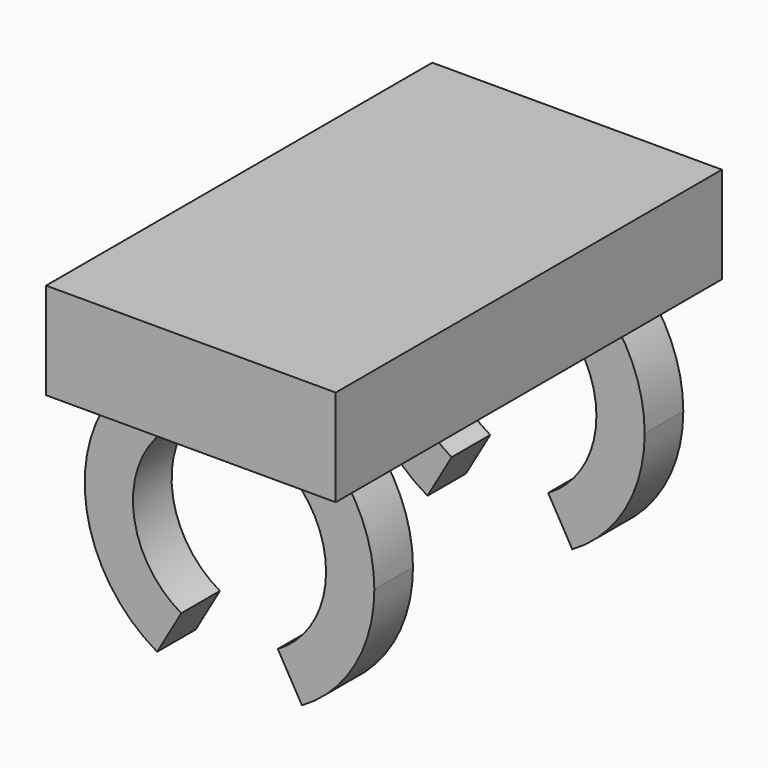
from build123d import *

# Parameters (mm, degrees)
F1_DEPTH = 12.5
F2_START = 7.5
F2_DEPTH = 2.5
F3_START = -7.5
F3_DEPTH = 2.5


with BuildPart() as f1:
    # F0 (on Front) → F1 (new body, symmetric)
    with BuildSketch(Plane.XZ):
        with BuildLine():
            Line((7.5, 2.5), (-7.5, 2.5))
            Line((-7.5, 2.5), (-7.5, -2.5))
            Line((-7.5, -2.5), (-5.5901699437, -2.5))
            ThreePointArc((-5.5901699437, -2.5), (0, 0), (5.5901699437, -2.5))
            Line((5.5901699437, -2.5), (7.5, -2.5))
            Line((7.5, -2.5), (7.5, 2.5))
        make_face()
        with BuildLine():
            ThreePointArc((5.5901699437, -2.5), (0, 0), (-5.5901699437, -2.5))
            Line((-5.5901699437, -2.5), (0, -2.5))
            Line((0, -2.5), (5.5901699437, -2.5))
        make_face()
    extrude(amount=F1_DEPTH, both=True)

    # F0 (on Front) → F2 (join)
    with BuildSketch(Plane.XZ.offset(F2_START)):
        with BuildLine():
            Line((0, -2.5), (-5.5901699437, -2.5))
            ThreePointArc((-5.5901699437, -2.5), (-7.4057102945, -8.6855188883), (-3.75, -13.9951905284))
            Line((-3.75, -13.9951905284), (-2.5, -11.8301270189))
            ThreePointArc((-2.5, -11.8301270189), (-4.8296291314, -6.2059047745), (0, -2.5))
        make_face()
        with BuildLine():
            ThreePointArc((7.5, -7.5), (7.0062926922, -4.8238343267), (5.5901699437, -2.5))
            Line((5.5901699437, -2.5), (0, -2.5))
            ThreePointArc((0, -2.5), (3.5355339059, -3.9644660941), (5, -7.5))
            ThreePointArc((5, -7.5), (4.3301270189, -10), (2.5, -11.8301270189))
            Line((2.5, -11.8301270189), (3.75, -13.9951905284))
            ThreePointArc((3.75, -13.9951905284), (6.4951905284, -11.25), (7.5, -7.5))
        make_face()
    extrude(amount=F2_DEPTH)

    # F0 (on Front) → F3 (join)
    with BuildSketch(Plane.XZ.offset(F3_START)):
        with BuildLine():
            ThreePointArc((7.5, -7.5), (7.0062926922, -4.8238343267), (5.5901699437, -2.5))
            Line((5.5901699437, -2.5), (0, -2.5))
            ThreePointArc((0, -2.5), (3.5355339059, -3.9644660941), (5, -7.5))
            ThreePointArc((5, -7.5), (4.3301270189, -10), (2.5, -11.8301270189))
            Line((2.5, -11.8301270189), (3.75, -13.9951905284))
            ThreePointArc((3.75, -13.9951905284), (6.4951905284, -11.25), (7.5, -7.5))
        make_face()
        with BuildLine():
            Line((0, -2.5), (-5.5901699437, -2.5))
            ThreePointArc((-5.5901699437, -2.5), (-7.4057102945, -8.6855188883), (-3.75, -13.9951905284))
            Line((-3.75, -13.9951905284), (-2.5, -11.8301270189))
            ThreePointArc((-2.5, -11.8301270189), (-4.8296291314, -6.2059047745), (0, -2.5))
        make_face()
    extrude(amount=-F3_DEPTH)


solid = f1.part
